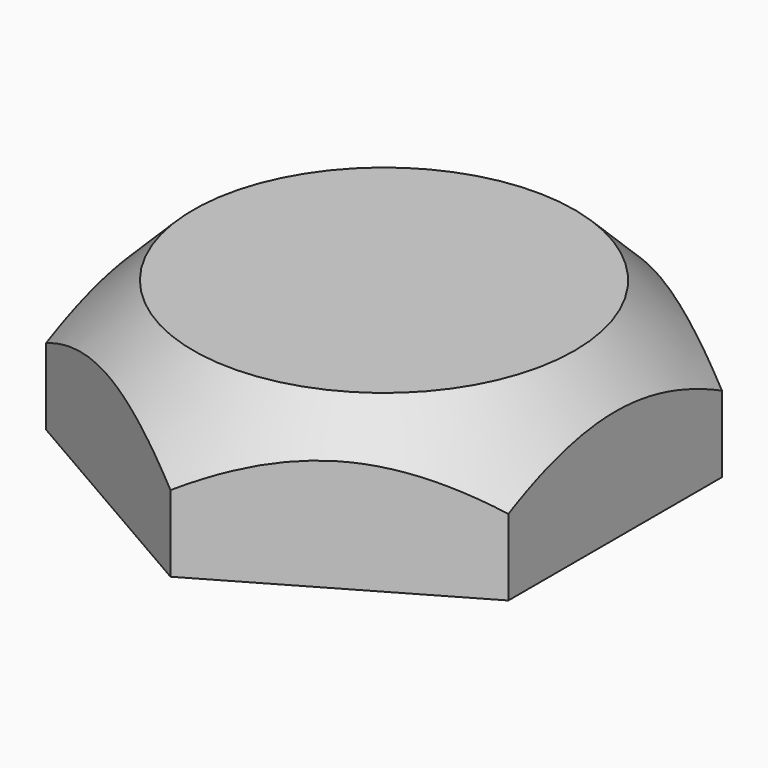
from build123d import *

# Parameters (mm, degrees)
SKETCH_R          = 3.5
PAD_DEPTH         = 2
CHAMFER_SIZE      = 1
SKETCH001_R       = 4.5
POCKET_DEPTH      = 2.001
POCKET_DEPTH_BACK = 0.001


with BuildPart() as part:
    # Sketch → Pad (new body)
    with BuildSketch(Plane.XY):
        Circle(SKETCH_R)
    extrude(amount=PAD_DEPTH)

    # Chamfer
    chamfer_edges = [part.edges().sort_by_distance(p)[0] for p in [
        (-3.5, 0, 2),
    ]]
    chamfer(chamfer_edges, length=CHAMFER_SIZE)

    # Sketch001 (on Face3 of Pad) → Pocket (cut, two sides)
    with BuildSketch(Plane.XY.offset(2)) as pocket_sk:
        Circle(SKETCH001_R)
        Polygon((3.031089, 1.75), (0, 3.5), (-3.031089, 1.75), (-3.031089, -1.75), (0, -3.5), (3.031089, -1.75), align=None, mode=Mode.SUBTRACT)
    extrude(amount=-POCKET_DEPTH, mode=Mode.SUBTRACT)
    extrude(pocket_sk.sketch, amount=POCKET_DEPTH_BACK, mode=Mode.SUBTRACT)


solid = part.part
